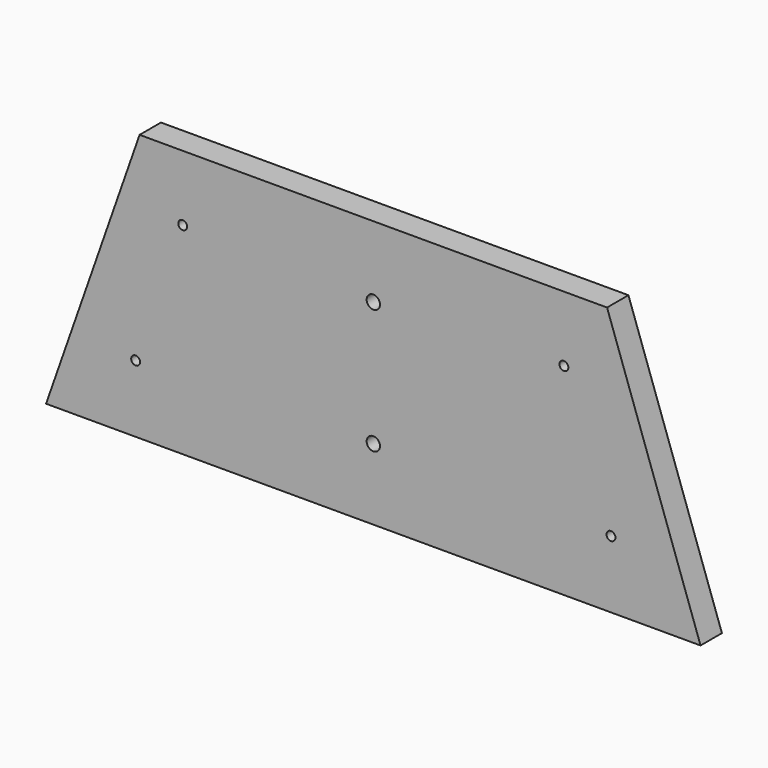
from build123d import *

# Parameters (mm, degrees)
F1_DEPTH = 19.05
F2_R     = 3.175
F2_R_2   = 4.7625
F3_DEPTH = 25.4


with BuildPart() as f1:
    # F0 (on Front) → F1 (new body)
    with BuildSketch(Plane.XZ):
        Polygon((66.675, 190.5), (0, 0), (466.725, 0), (400.05, 190.5), align=None)
    extrude(amount=F1_DEPTH)

    # F2 (on face) → F3 (cut)
    with BuildSketch(Plane.XZ.offset(19.05)):
        with Locations((97.439335, 143.844014)):
            Circle(F2_R)
        with Locations((63.875732, 47.948005)):
            Circle(F2_R)
        with Locations((369.285665, 143.844014)):
            Circle(F2_R)
        with Locations((402.849268, 47.948005)):
            Circle(F2_R)
        with Locations((233.3625, 139.7)):
            Circle(F2_R_2)
        with Locations((233.3625, 50.8)):
            Circle(F2_R_2)
    extrude(amount=-F3_DEPTH, mode=Mode.SUBTRACT)


solid = f1.part
